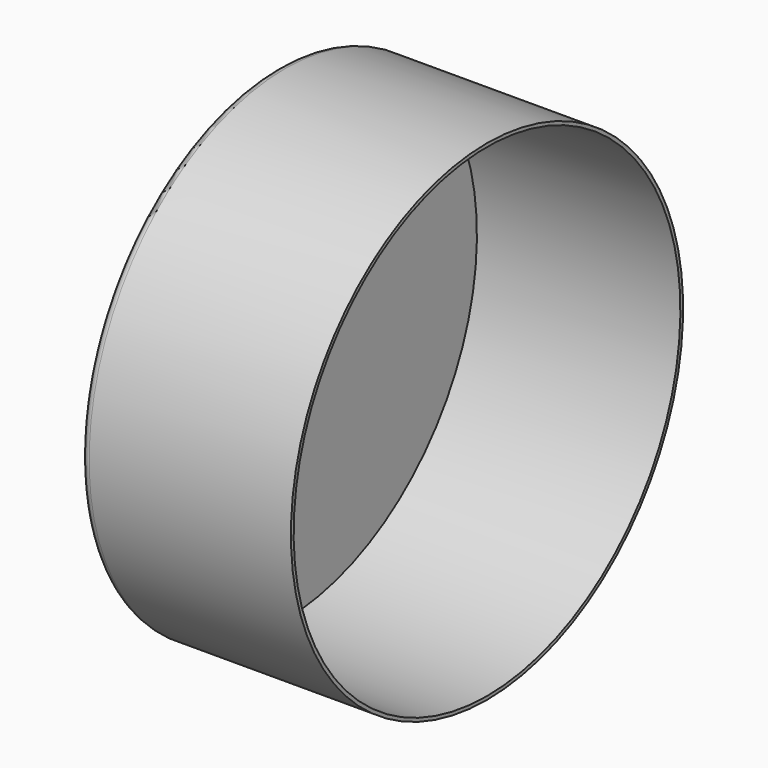
from build123d import *


with BuildPart() as f1:
    # F0 (on Front) → F1 (revolve)
    with BuildSketch(Plane.XZ):
        with BuildLine():
            ThreePointArc((-32.938294, -18.415155), (-32.645401, -19.122262), (-31.938294, -19.415155))
            Line((-31.938294, -19.415155), (-7.938294, -19.415155))
            Line((-7.938294, -19.415155), (-7.938294, -19.015155))
            Line((-7.938294, -19.015155), (-32.138294, -19.015155))
            Line((-32.138294, -19.015155), (-32.138294, 9.734845))
            Line((-32.138294, 9.734845), (-32.938294, 9.734845))
            Line((-32.938294, 9.734845), (-32.938294, -18.415155))
        make_face()
    revolve(axis=Axis((-32.538294, 0, 9.734845), (-1, 0, 0)))


solid = f1.part
